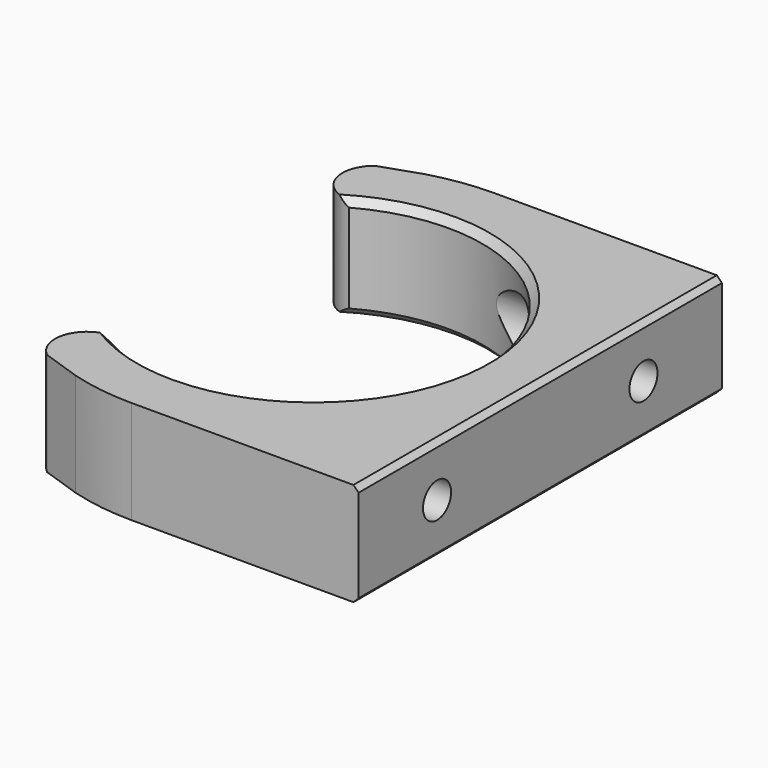
from build123d import *

# Parameters (mm, degrees)
CYLINDER_R              = 3
CYLINDER_DEPTH          = 15
CYLINDER_PITCH_ANGLE    = -90
CYLINDER001_R           = 3
CYLINDER001_DEPTH       = 15
CYLINDER001_PITCH_ANGLE = -90
PAD_DEPTH               = 10
SKETCH001_R             = 1.7
POCKET_DEPTH            = 20
CHAMFER_SIZE            = 2
CHAMFER001_SIZE         = 0.7
CHAMFER002_SIZE         = 0.5


with BuildPart() as cilindro:
    # Cylinder → Cylinder (new body)
    with BuildSketch(Plane.XY):
        Circle(CYLINDER_R)
    extrude(amount=CYLINDER_DEPTH)


with BuildPart() as cilindro_1:
    # Cylinder pitch: moved
    add(cilindro.part.rotate(Axis((0, 0, 0), (0, 1, 0)), CYLINDER_PITCH_ANGLE))


with BuildPart() as cilindro_2:
    # Cylinder placement: moved
    add(cilindro_1.part.moved(Location((18, 12.5, 5))))


with BuildPart() as fusion:
    # Cylinder001 → Cylinder001 (new body)
    with BuildSketch(Plane.XY):
        Circle(CYLINDER001_R)
    extrude(amount=CYLINDER001_DEPTH)


with BuildPart() as fusion_1:
    # Cylinder001 pitch: moved
    add(fusion.part.rotate(Axis((0, 0, 0), (0, 1, 0)), CYLINDER001_PITCH_ANGLE))


with BuildPart() as fusion_2:
    # Cylinder001 placement: moved
    add(fusion_1.part.moved(Location((18, -12.5, 5))))

    # Fusion: union Cilindro
    add(cilindro_2.part)


with BuildPart() as chamfer002:
    # Sketch → Pad (new body)
    with BuildSketch(Plane.XY):
        with BuildLine():
            ThreePointArc((-8, -14.316424), (16.4, 0), (-8, 14.316424))
            ThreePointArc((-8, 20.493902), (-11.088739, 17.405163), (-8, 14.316424))
            ThreePointArc((0, 22), (-4.070268, 21.620197), (-8, 20.493902))
            Line((0, 22), (22, 22))
            Line((22, 22), (22, -22))
            Line((0, -22), (22, -22))
            ThreePointArc((-8, -20.493902), (-4.070268, -21.620197), (0, -22))
            ThreePointArc((-8, -14.316424), (-11.08874, -17.405163), (-8, -20.493902))
        make_face()
    extrude(amount=PAD_DEPTH)

    # Sketch001 → Pocket (cut)
    with BuildSketch(Plane.YZ.offset(22)):
        with Locations((-12.5, 5)):
            Circle(SKETCH001_R)
        with Locations((12.5, 5)):
            Circle(SKETCH001_R)
    extrude(amount=-POCKET_DEPTH, mode=Mode.SUBTRACT)

    # Cut: cut Fusion
    add(fusion_2.part, mode=Mode.SUBTRACT)

    # Chamfer
    chamfer_edges = [chamfer002.edges().sort_by_distance(p)[0] for p in [
        (-8, -20.493902, 5),
        (-8, 20.493902, 5),
    ]]
    chamfer(chamfer_edges, length=CHAMFER_SIZE)

    # Chamfer001
    chamfer001_edges = [chamfer002.edges().sort_by_distance(p)[0] for p in [
        (16.4, 0, 10),
        (16.4, 0, 0),
    ]]
    chamfer(chamfer001_edges, length=CHAMFER001_SIZE)

    # Chamfer002
    chamfer002_edges = [chamfer002.edges().sort_by_distance(p)[0] for p in [
        (22, 0, 0),
        (22, 0, 10),
    ]]
    chamfer(chamfer002_edges, length=CHAMFER002_SIZE)


solid = chamfer002.part
